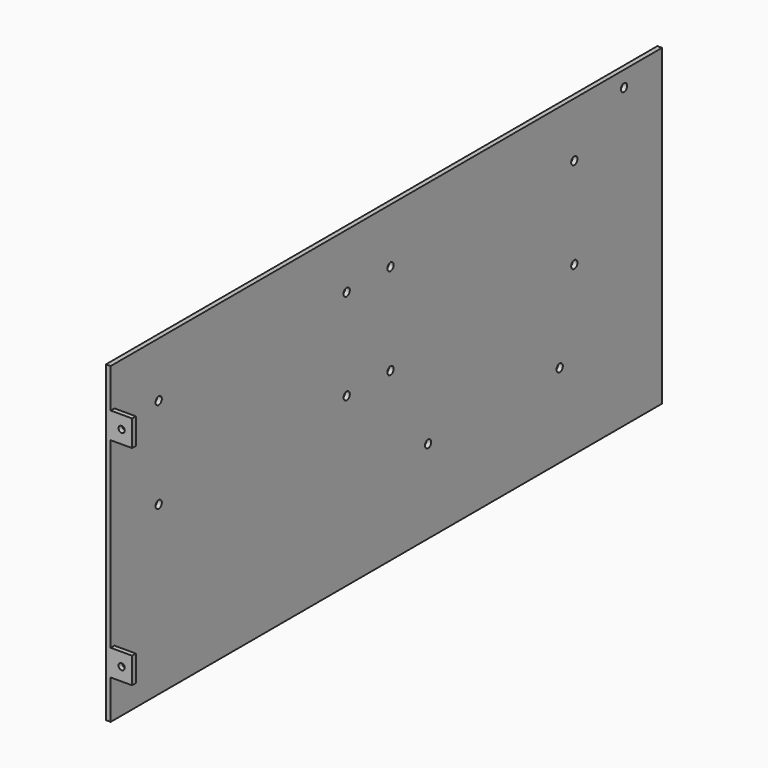
from build123d import *

# Parameters (mm, degrees)
F0_R     = 1.5
F1_DEPTH = 1.8
F2_DEPTH = 10
F3_R     = 1.2
F4_DEPTH = 264.001


with BuildPart() as f1:
    # F0 (on Right) → F1 (new body)
    with BuildSketch(Plane.YZ):
        Polygon((-132, -60), (132, -60), (132, 60), (-132, 60), (-132, 45), (-130.2, 45), (-130.2, 40), (-130.2, 35), (-132, 35), (-132, -35), (-130.2, -35), (-130.2, -40), (-130.2, -45), (-132, -45), align=None)
        with Locations((20, -28)):
            Circle(F0_R, mode=Mode.SUBTRACT)
        with Locations((83, -28)):
            Circle(F0_R, mode=Mode.SUBTRACT)
        with Locations((-109, 4)):
            Circle(F0_R, mode=Mode.SUBTRACT)
        with Locations((-19, 4)):
            Circle(F0_R, mode=Mode.SUBTRACT)
        with Locations((-109, 39)):
            Circle(F0_R, mode=Mode.SUBTRACT)
        with Locations((-19, 39)):
            Circle(F0_R, mode=Mode.SUBTRACT)
        with Locations((2, 4)):
            Circle(F0_R, mode=Mode.SUBTRACT)
        with Locations((90, 4)):
            Circle(F0_R, mode=Mode.SUBTRACT)
        with Locations((2, 39)):
            Circle(F0_R, mode=Mode.SUBTRACT)
        with Locations((90, 39)):
            Circle(F0_R, mode=Mode.SUBTRACT)
        with Locations((113.8, 54)):
            Circle(F0_R, mode=Mode.SUBTRACT)
        Polygon((-130.2, 45), (-132, 45), (-132, 35), (-130.2, 35), (-130.2, 40), align=None)
        Polygon((-132, -35), (-132, -45), (-130.2, -45), (-130.2, -40), (-130.2, -35), align=None)
    extrude(amount=F1_DEPTH)

    # F0 (on Right) → F2 (join)
    with BuildSketch(Plane.YZ):
        Polygon((-130.2, 45), (-132, 45), (-132, 35), (-130.2, 35), (-130.2, 40), align=None)
        Polygon((-132, -35), (-132, -45), (-130.2, -45), (-130.2, -40), (-130.2, -35), align=None)
    extrude(amount=F2_DEPTH)

    # F3 (on face) → F4 (cut, through all)
    with BuildSketch(Plane.XZ.offset(132)):
        with Locations((6, 40)):
            Circle(F3_R)
        with Locations((6, -40)):
            Circle(F3_R)
    extrude(amount=-F4_DEPTH, mode=Mode.SUBTRACT)


solid = f1.part
